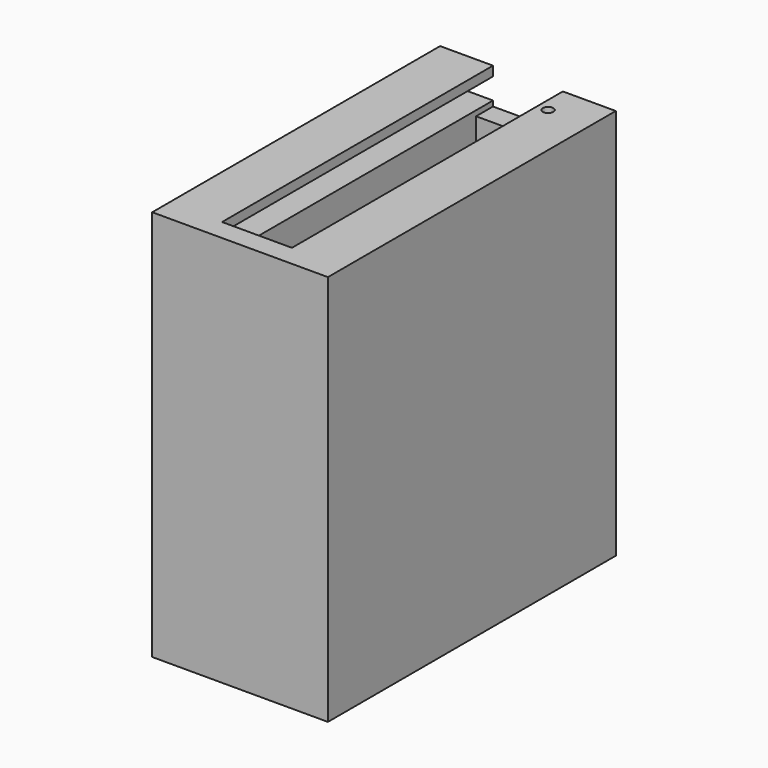
from build123d import *

# Parameters (mm, degrees)
F0_W      = 6.6
F0_H      = 30
F1_DEPTH  = 2
F0_W_2    = 16.6
F0_H_2    = 34
F2_DEPTH  = 34
F3_R      = 1.5
F4_DEPTH  = 9
F5_W      = 6.6
F5_H      = 0.4
F6_DEPTH  = 25
F8_DEPTH  = 3
F9_W      = 12
F9_H      = 2
F10_DEPTH = 32
F11_R     = 0.5
F12_DEPTH = 4


with BuildPart() as f1:
    # F0 (on Top) → F1 (new body)
    with BuildSketch(Plane.XY):
        Rectangle(F0_W, F0_H)
    extrude(amount=F1_DEPTH)

    # F0 (on Top) → F2 (join)
    with BuildSketch(Plane.XY):
        Rectangle(F0_W_2, F0_H_2)
        Rectangle(F0_W, F0_H, mode=Mode.SUBTRACT)
    extrude(amount=F2_DEPTH)

    # F3 (on face) → F4 (join)
    with BuildSketch(Plane.XY.offset(2)):
        with Locations((0, 9)):
            Circle(F3_R)
        with Locations((0, -9)):
            Circle(F3_R)
    extrude(amount=F4_DEPTH)

    # F5 (on face) → F6 (cut)
    with BuildSketch(Plane(origin=(0, 17, 0), x_dir=(-1, 0, 0), z_dir=(0, 1, 0))):
        with Locations((0, 33.8)):
            Rectangle(F5_W, F5_H)
    extrude(amount=-F6_DEPTH, mode=Mode.SUBTRACT)

    # F7 (on face) → F8 (join)
    with BuildSketch(Plane.XY.offset(34)):
        Polygon((-8.3, -17), (8.3, -17), (8.3, 17), (3.3, 17), (3.3, -15), (-3.3, -15), (-3.3, 17), (-8.3, 17), align=None)
    extrude(amount=F8_DEPTH)

    # F9 (on face) → F10 (cut)
    with BuildSketch(Plane(origin=(0, 17, 0), x_dir=(-1, 0, 0), z_dir=(0, 1, 0))):
        with Locations((0, 35.1)):
            Rectangle(F9_W, F9_H)
    extrude(amount=-F10_DEPTH, mode=Mode.SUBTRACT)

    # F11 (on face) → F12 (cut)
    with BuildSketch(Plane.XY.offset(37)):
        with Locations((4.3, 14)):
            Circle(F11_R)
    extrude(amount=-F12_DEPTH, mode=Mode.SUBTRACT)


solid = f1.part
